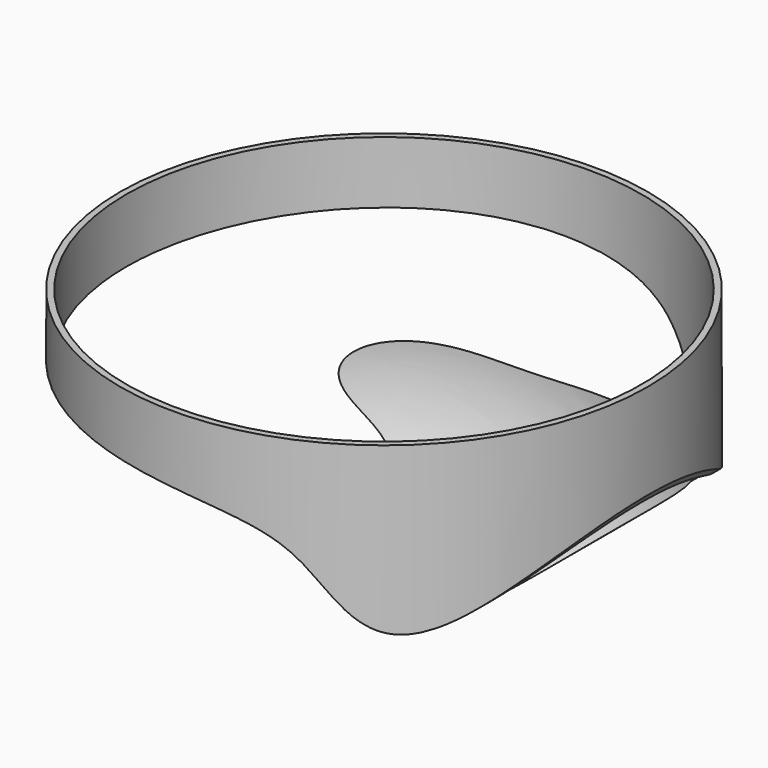
from build123d import *

# Parameters (mm, degrees)
POCKET_DEPTH   = 250
CYLINDER_R     = 2
CYLINDER_DEPTH = 10


with BuildPart() as body:
    # Sketch → Revolution (revolve)
    with BuildSketch(Plane.XZ):
        with BuildLine():
            ThreePointArc((0, 50), (-61.569997, 37.787734), (-113.817653, 3))
            Line((-113.817653, 3), (-122, 3))
            Line((-122, 3), (-122, 80))
            Line((-122, 80), (-125, 80))
            Line((-125, 80), (-125, 0))
            Line((-125, 0), (-113.817653, 0))
            ThreePointArc((0, 47), (-61.569997, 34.787734), (-113.817653, 0))
            Line((0, 50), (0, 47))
        make_face()
    revolve(axis=Axis((0, 0, 0), (0, 0, 1)))

    # Sketch001 → Pocket (cut, symmetric)
    with BuildSketch(Plane.XZ):
        with BuildLine():
            add(Edge.make_bspline(
                [(-146.492447, 49.037621), (20.136314, 54.486748), (58.280247, 37.278961), (86.386299, -30.40502), (144.319183, 63.951031)],
                knots=[0, 0, 0, 0, 0.5, 1, 1, 1, 1], degree=3))
            Line((144.319183, 63.951031), (144.319183, -53.834858))
            Line((144.319183, -53.834858), (-146.492447, -53.834858))
            Line((-146.492447, -53.834858), (-146.492447, 49.037621))
        make_face()
    extrude(amount=POCKET_DEPTH, both=True, mode=Mode.SUBTRACT)


with BuildPart() as cylinder:
    # Cylinder → Cylinder (new body)
    with BuildSketch(Plane.XY):
        Circle(CYLINDER_R)
    extrude(amount=CYLINDER_DEPTH)


solid = Compound([body.part, cylinder.part])
